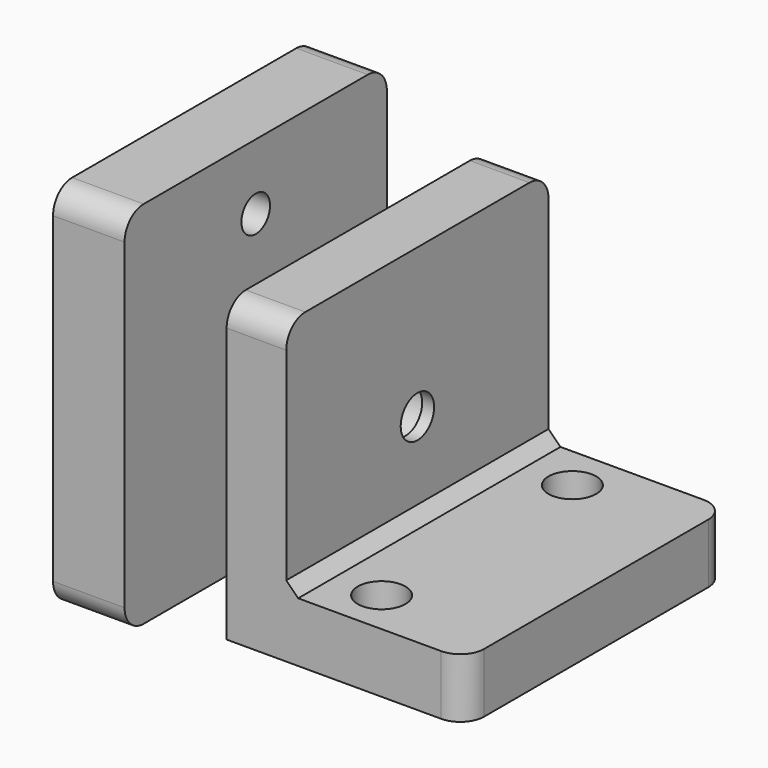
from build123d import *

# Parameters (mm, degrees)
SKETCH_W                = 27.5
SKETCH_H                = 31
PAD_DEPTH               = 6
SKETCH001_R             = 1.5
SKETCH001_R_2           = 1.75
POCKET_DEPTH            = 6.3
FILLET001_R             = 2
FILLET002_R             = 2
SKETCH008_R             = 3
POCKET004_DEPTH         = 3.25
SKETCH009_R             = 2.75
POCKET005_DEPTH         = 1
SKETCH002_R             = 2.5
SKETCH002_R_2           = 1.75
PAD001_DEPTH            = 10
BODY001_PLACEMENT_ANGLE = 90
SKETCH003_W             = 20
SKETCH003_H             = 27.5
PAD002_DEPTH            = 5
SKETCH004_R             = 2
POCKET001_DEPTH         = 5
SKETCH005_W             = 5
SKETCH005_H             = 27.5
PAD003_DEPTH            = 20
SKETCH006_R             = 2.75
POCKET002_DEPTH         = 4
SKETCH007_R             = 1.75
POCKET003_DEPTH         = 5
CHAMFER_SIZE            = 1
FILLET_R                = 2
FILLET003_R             = 2


with BuildPart() as sensorbracket:
    # Sketch (on YZ_Plane of Origin) → Pad (new body)
    with BuildSketch(Plane.YZ):
        Rectangle(SKETCH_W, SKETCH_H)
    extrude(amount=PAD_DEPTH)

    # Sketch001 (on Face6 of Pad) → Pocket (cut)
    with BuildSketch(Plane.YZ.offset(6)):
        with Locations((0, 10)):
            Circle(SKETCH001_R)
        with Locations((0, -10)):
            Circle(SKETCH001_R)
        Circle(SKETCH001_R_2)
    extrude(amount=-POCKET_DEPTH, mode=Mode.SUBTRACT)

    # Fillet001
    fillet001_edges = [sensorbracket.edges().sort_by_distance(p)[0] for p in [
        (3, -13.75, 15.5),
        (3, 13.75, 15.5),
    ]]
    fillet(fillet001_edges, radius=FILLET001_R)

    # Fillet002
    fillet002_edges = [sensorbracket.edges().sort_by_distance(p)[0] for p in [
        (3, 13.75, -15.5),
        (3, -13.75, -15.5),
    ]]
    fillet(fillet002_edges, radius=FILLET002_R)

    # Sketch008 (on Face2 of Fillet002) → Pocket004 (cut)
    with BuildSketch(Plane(origin=(0, 0, 0), x_dir=(0, -1, 0), z_dir=(-1, 0, 0))):
        Circle(SKETCH008_R)
    extrude(amount=-POCKET004_DEPTH, mode=Mode.SUBTRACT)

    # Sketch009 (on Face5 of Pocket004) → Pocket005 (cut)
    with BuildSketch(Plane.YZ.offset(6)):
        Circle(SKETCH009_R)
    extrude(amount=-POCKET005_DEPTH, mode=Mode.SUBTRACT)


with BuildPart() as sensorbracket_1:
    # Body placement: moved
    add(sensorbracket.part.moved(Location((-4.9, 0, 0))))


with BuildPart() as spacer:
    # Sketch002 (on XY_Plane001 of Origin002) → Pad001 (new body)
    with BuildSketch(Plane.XY):
        Circle(SKETCH002_R)
        Circle(SKETCH002_R_2, mode=Mode.SUBTRACT)
    extrude(amount=PAD001_DEPTH)


with BuildPart() as spacer_1:
    # Body001 placement: moved
    add(spacer.part.moved(Location((0, 0, -0.7))).rotate(Axis((0, 0, -0.7), (0, 1, 0)), BODY001_PLACEMENT_ANGLE))


with BuildPart() as mount:
    # Sketch003 (on XY_Plane002 of Origin004) → Pad002 (new body)
    with BuildSketch(Plane.XY):
        Rectangle(SKETCH003_W, SKETCH003_H)
    extrude(amount=PAD002_DEPTH)

    # Sketch004 (on Face6 of Pad002) → Pocket001 (cut)
    with BuildSketch(Plane.XY.offset(5)):
        with Locations((0, 10)):
            Circle(SKETCH004_R)
        with Locations((0, -10)):
            Circle(SKETCH004_R)
    extrude(amount=-POCKET001_DEPTH, mode=Mode.SUBTRACT)

    # Sketch005 (on Face5 of Pocket001) → Pad003 (join)
    with BuildSketch(Plane.XY.offset(5)):
        with Locations((-7.5, 0)):
            Rectangle(SKETCH005_W, SKETCH005_H)
    extrude(amount=PAD003_DEPTH)

    # Sketch006 (on Face8 of Pad003) → Pocket002 (cut)
    with BuildSketch(Plane(origin=(-10, 0, 0), x_dir=(0, -1, 0), z_dir=(-1, 0, 0))):
        with Locations((0, 12.5)):
            Circle(SKETCH006_R)
    extrude(amount=-POCKET002_DEPTH, mode=Mode.SUBTRACT)

    # Sketch007 (on Face12 of Pocket002) → Pocket003 (cut)
    with BuildSketch(Plane(origin=(-6, 0, 0), x_dir=(0, -1, 0), z_dir=(-1, 0, 0))):
        with Locations((0, 12.5)):
            Circle(SKETCH007_R)
    extrude(amount=-POCKET003_DEPTH, mode=Mode.SUBTRACT)

    # Chamfer
    chamfer_edges = [mount.edges().sort_by_distance(p)[0] for p in [
        (-5, 0, 5),
    ]]
    chamfer(chamfer_edges, length=CHAMFER_SIZE)

    # Fillet
    fillet_edges = [mount.edges().sort_by_distance(p)[0] for p in [
        (-7.5, 13.75, 25),
        (-7.5, -13.75, 25),
    ]]
    fillet(fillet_edges, radius=FILLET_R)

    # Fillet003
    fillet003_edges = [mount.edges().sort_by_distance(p)[0] for p in [
        (10, -13.75, 2.5),
        (10, 13.75, 2.5),
    ]]
    fillet(fillet003_edges, radius=FILLET003_R)


with BuildPart() as mount_1:
    # Body002 placement: moved
    add(mount.part.moved(Location((19.5, 0.2, -13.2))))


solid = Compound([sensorbracket_1.part, spacer_1.part, mount_1.part])
